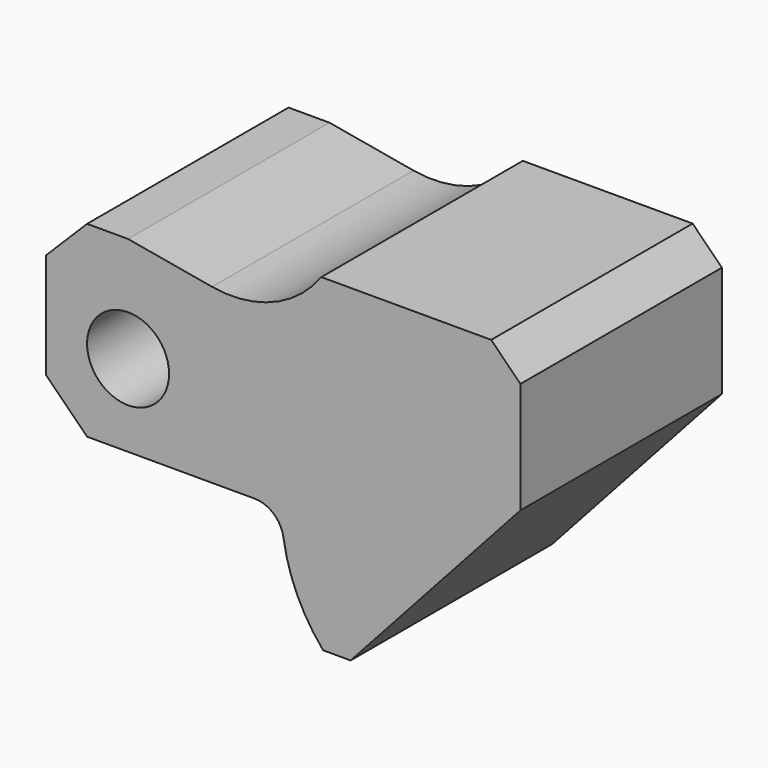
from build123d import *

# Parameters (mm, degrees)
F0_R     = 7
F1_DEPTH = 43


with BuildPart() as f1:
    # F0 (on Front) → F1 (new body)
    with BuildSketch(Plane.XZ):
        with BuildLine():
            Line((0, 18), (-7, 18))
            Line((-7, 18), (-14, 11))
            Line((-14, 11), (-14, -7))
            Line((-14, -7), (-7, -14))
            Line((-7, -14), (21.588407, -14))
            ThreePointArc((21.588407, -14), (24.853642, -15.213414), (26.534045, -18.264706))
            ThreePointArc((26.534045, -18.264706), (28.870876, -26.115672), (33.309848, -33))
            Line((33.309848, -33), (38, -33))
            Line((38, -33), (67, -1))
            Line((67, -1), (67, 18))
            Line((67, 18), (62, 23))
            Line((62, 23), (33, 23))
            ThreePointArc((33, 23), (24.748492, 16.562853), (14.340175, 15.47144))
            Line((14.340175, 15.47144), (0, 18))
        make_face()
        Circle(F0_R, mode=Mode.SUBTRACT)
    extrude(amount=F1_DEPTH)


solid = f1.part
